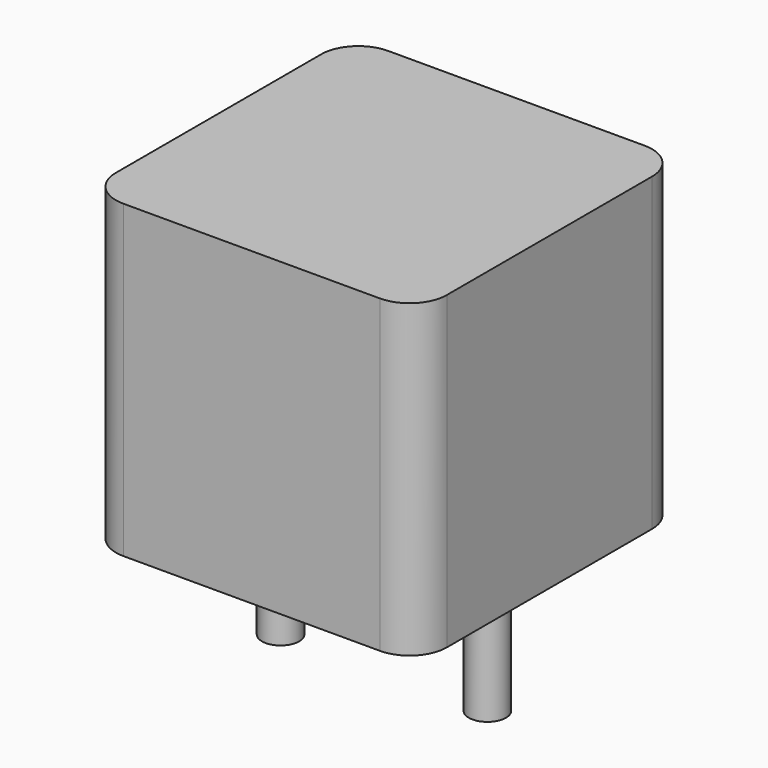
from build123d import *

# Parameters (mm, degrees)
SKETCH001_R  = 0.45
PAD001_DEPTH = 3.5
SKETCH_W     = 8
SKETCH_H     = 8
PAD_DEPTH    = 7.5
FILLET_R     = 0.9


with BuildPart() as pad001:
    # Sketch001 → Pad001 (new body)
    with BuildSketch(Plane.XY.offset(0.5)):
        Circle(SKETCH001_R)
        with Locations((5, 0)):
            Circle(SKETCH001_R)
    extrude(amount=-PAD001_DEPTH)


with BuildPart() as obj1:
    # Sketch → Pad (new body)
    with BuildSketch(Plane.XY.offset(0.1)):
        with Locations((2.5, 0)):
            Rectangle(SKETCH_W, SKETCH_H)
    extrude(amount=PAD_DEPTH)

    # Fillet
    fillet_edges = [obj1.edges().sort_by_distance(p)[0] for p in [
        (6.5, -4, 3.85),
        (6.5, 4, 3.85),
        (-1.5, -4, 3.85),
        (-1.5, 4, 3.85),
    ]]
    fillet(fillet_edges, radius=FILLET_R)

    # obj1: union Pad001
    add(pad001.part)


solid = obj1.part
